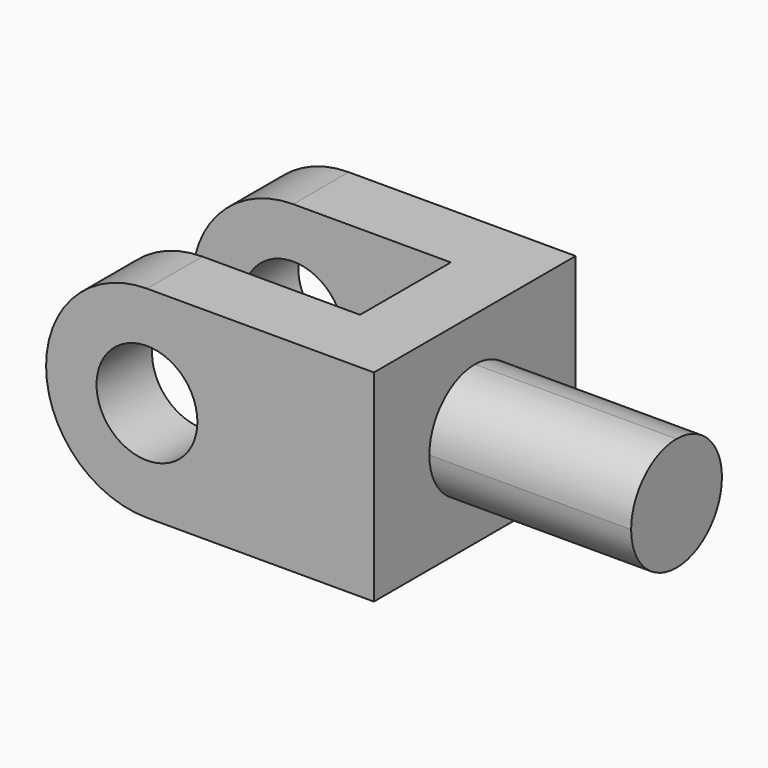
from build123d import *

# Parameters (mm, degrees)
F0_R     = 203.2
F1_DEPTH = 1016
F2_W     = 127
F2_H     = 457.2
F3_DEPTH = 812.801
F2_W_2   = 635
F2_W_3   = 279.4
F4_DEPTH = 812.801
F5_W     = 812.8
F5_H     = 279.4
F6_DEPTH = 635.001
F8_DEPTH = 812.8


with BuildPart() as f1:
    # F0 (on Front) → F1 (new body)
    with BuildSketch(Plane.XZ):
        with BuildLine():
            ThreePointArc((0, -406.4), (287.368196, -287.368196), (406.4, 0))
            ThreePointArc((406.4, 0), (287.368196, 287.368196), (0, 406.4))
            ThreePointArc((0, 406.4), (-406.4, 0), (0, -406.4))
        make_face()
        Circle(F0_R, mode=Mode.SUBTRACT)
        with BuildLine():
            ThreePointArc((0, 406.4), (287.368196, 287.368196), (406.4, 0))
            ThreePointArc((406.4, 0), (287.368196, -287.368196), (0, -406.4))
            Line((0, -406.4), (914.4, -406.4))
            Line((914.4, -406.4), (914.4, -228.6))
            Line((914.4, -228.6), (1727.2, -228.6))
            Line((1727.2, -228.6), (1727.2, 228.6))
            Line((1727.2, 228.6), (914.4, 228.6))
            Line((914.4, 228.6), (914.4, 406.4))
            Line((914.4, 406.4), (0, 406.4))
        make_face()
    extrude(amount=F1_DEPTH)

    # F2 (on face) → F3 (cut, through all)
    with BuildSketch(Plane.XY.offset(406.4)):
        with Locations((-342.9, -508)):
            Rectangle(F2_W, F2_H)
        with Locations((-342.9, -508)):
            Rectangle(F2_W, F2_H)
    extrude(amount=-F3_DEPTH, mode=Mode.SUBTRACT)

    # F2 (on face) → F4 (cut, through all)
    with BuildSketch(Plane.XY.offset(406.4)):
        with Locations((317.5, -508)):
            Rectangle(F2_W_2, F2_H)
        with Locations((-139.7, -508)):
            Rectangle(F2_W_3, F2_H)
        with Locations((-342.9, -508)):
            Rectangle(F2_W, F2_H)
    extrude(amount=-F4_DEPTH, mode=Mode.SUBTRACT)

    # F5 (on face) → F6 (cut, through all)
    with BuildSketch(Plane.XY.offset(228.6)):
        with Locations((1320.8, -139.7)):
            Rectangle(F5_W, F5_H)
        with Locations((1320.8, -876.3)):
            Rectangle(F5_W, F5_H)
    extrude(amount=-F6_DEPTH, mode=Mode.SUBTRACT)

    # F7 (on face) → F8 (cut)
    with BuildSketch(Plane.YZ.offset(1727.2)):
        with BuildLine():
            ThreePointArc((-508, 228.6), (-346.35539, 161.64461), (-279.4, 0))
            Line((-279.4, 0), (-279.4, 228.6))
            Line((-279.4, 228.6), (-508, 228.6))
        make_face()
        with BuildLine():
            Line((-279.4, -228.6), (-279.4, 0))
            ThreePointArc((-279.4, 0), (-346.35539, -161.64461), (-508, -228.6))
            Line((-508, -228.6), (-279.4, -228.6))
        make_face()
        with BuildLine():
            Line((-736.6, -228.6), (-508, -228.6))
            ThreePointArc((-508, -228.6), (-669.64461, -161.64461), (-736.6, -1e-06))
            Line((-736.6, -1e-06), (-736.6, -228.6))
        make_face()
        with BuildLine():
            ThreePointArc((-736.6, -1e-06), (-669.64461, 161.64461), (-508, 228.6))
            Line((-508, 228.6), (-736.6, 228.6))
            Line((-736.6, 228.6), (-736.6, -1e-06))
        make_face()
    extrude(amount=-F8_DEPTH, mode=Mode.SUBTRACT)


solid = f1.part
